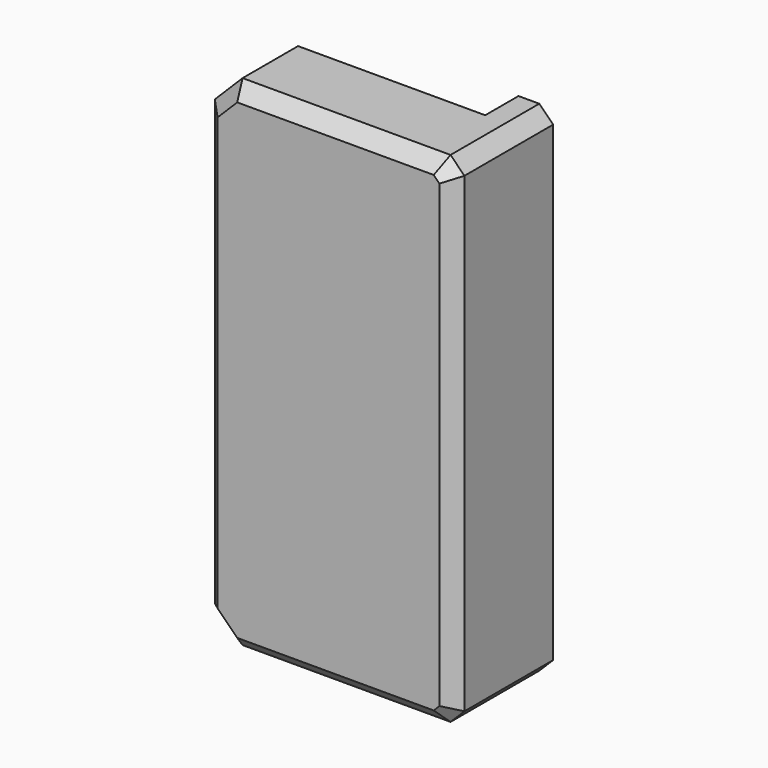
from build123d import *

# Parameters (mm, degrees)
BOX034_W                             = 5.5
BOX034_H                             = 3
BOX034_DEPTH                         = 20
CYLINDER016033_R                     = 1.9
CYLINDER016033_DEPTH                 = 10
CYLINDER016032_R                     = 1.9
CYLINDER016032_DEPTH                 = 10
BOX020_W                             = 14
BOX020_H                             = 9
BOX020_DEPTH                         = 40
BOX019_W                             = 14
BOX019_H                             = 9
BOX019_DEPTH                         = 40
BOX036_W                             = 25.5
BOX036_H                             = 3
BOX036_DEPTH                         = 36
BOX035_W                             = 40
BOX035_H                             = 9
BOX035_DEPTH                         = 36
CHAMFER016016008004017002013003_SIZE = 2
CHAMFER016016008004017002013004_SIZE = 1
CHAMFER016016008004017002013005_SIZE = 1


with BuildPart() as cube034:
    # Box034 → Box034 (new body)
    with BuildSketch(Plane(origin=(-17.75, -7, 8), x_dir=(1, 0, 0), z_dir=(0, 0, 1))):
        with Locations((2.75, 1.5)):
            Rectangle(BOX034_W, BOX034_H)
    extrude(amount=BOX034_DEPTH)


with BuildPart() as cylinder047:
    # Cylinder016033 → Cylinder016033 (new body)
    with BuildSketch(Plane(origin=(-15, 0, 3.5), x_dir=(1, 0, 0), z_dir=(0, 1, 0))):
        Circle(CYLINDER016033_R)
    extrude(amount=CYLINDER016033_DEPTH)


with BuildPart() as fusion018007003008:
    # Cylinder016032 → Cylinder016032 (new body)
    with BuildSketch(Plane(origin=(-15, 0, 32.5), x_dir=(1, 0, 0), z_dir=(0, 1, 0))):
        Circle(CYLINDER016032_R)
    extrude(amount=CYLINDER016032_DEPTH)

    # Fusion018007003008: union Cylinder047
    add(cylinder047.part)


with BuildPart() as fusion018007003008_1:
    # Fusion018007003008 placement: moved
    add(fusion018007003008.part.moved(Location((0, -8, 0))))


with BuildPart() as cube020:
    # Box020 → Box020 (new body)
    with BuildSketch(Plane(origin=(-34, -10, 0), x_dir=(1, 0, 0), z_dir=(0, 0, 1))):
        with Locations((7, 4.5)):
            Rectangle(BOX020_W, BOX020_H)
    extrude(amount=BOX020_DEPTH)


with BuildPart() as cube019:
    # Box019 → Box019 (new body)
    with BuildSketch(Plane(origin=(-2, -10, 0), x_dir=(1, 0, 0), z_dir=(0, 0, 1))):
        with Locations((7, 4.5)):
            Rectangle(BOX019_W, BOX019_H)
    extrude(amount=BOX019_DEPTH)


with BuildPart() as cube036:
    # Box036 → Box036 (new body)
    with BuildSketch(Plane(origin=(-30, -4, 0), x_dir=(1, 0, 0), z_dir=(0, 0, 1))):
        with Locations((12.75, 1.5)):
            Rectangle(BOX036_W, BOX036_H)
    extrude(amount=BOX036_DEPTH)


with BuildPart() as obj1:
    # Box035 → Box035 (new body)
    with BuildSketch(Plane(origin=(-30, -10, 0), x_dir=(1, 0, 0), z_dir=(0, 0, 1))):
        with Locations((20, 4.5)):
            Rectangle(BOX035_W, BOX035_H)
    extrude(amount=BOX035_DEPTH)

    # Cut010011008009003016003: cut Cube036
    add(cube036.part, mode=Mode.SUBTRACT)

    # Cut010011008009003016004: cut Cube019
    add(cube019.part, mode=Mode.SUBTRACT)

    # Cut010011008009003016022: cut Cube020
    add(cube020.part, mode=Mode.SUBTRACT)

    # Chamfer016016008004017002013003
    chamfer016016008004017002013003_edges = [obj1.edges().sort_by_distance(p)[0] for p in [
        (-20, -7, 36),
        (-20, -7, 0),
    ]]
    chamfer(chamfer016016008004017002013003_edges, length=CHAMFER016016008004017002013003_SIZE)

    # Chamfer016016008004017002013004
    chamfer016016008004017002013004_edges = [obj1.edges().sort_by_distance(p)[0] for p in [
        (-2, -5.5, 36),
        (-2, -5.5, 0),
    ]]
    chamfer(chamfer016016008004017002013004_edges, length=CHAMFER016016008004017002013004_SIZE)

    # Cut010011008009003016023: cut Fusion018007003008
    add(fusion018007003008_1.part, mode=Mode.SUBTRACT)

    # Cut010011008009003016024: cut Cube034
    add(cube034.part, mode=Mode.SUBTRACT)

    # Chamfer016016008004017002013005
    chamfer016016008004017002013005_edges = [obj1.edges().sort_by_distance(p)[0] for p in [
        (-10.5, -10, 36),
        (-10.5, -10, 0),
        (-19, -10, 1),
        (-20, -10, 18),
        (-19, -10, 35),
        (-2.5, -10, 35.5),
        (-2, -10, 18),
        (-2.5, -10, 0.5),
    ]]
    chamfer(chamfer016016008004017002013005_edges, length=CHAMFER016016008004017002013005_SIZE)


solid = obj1.part
